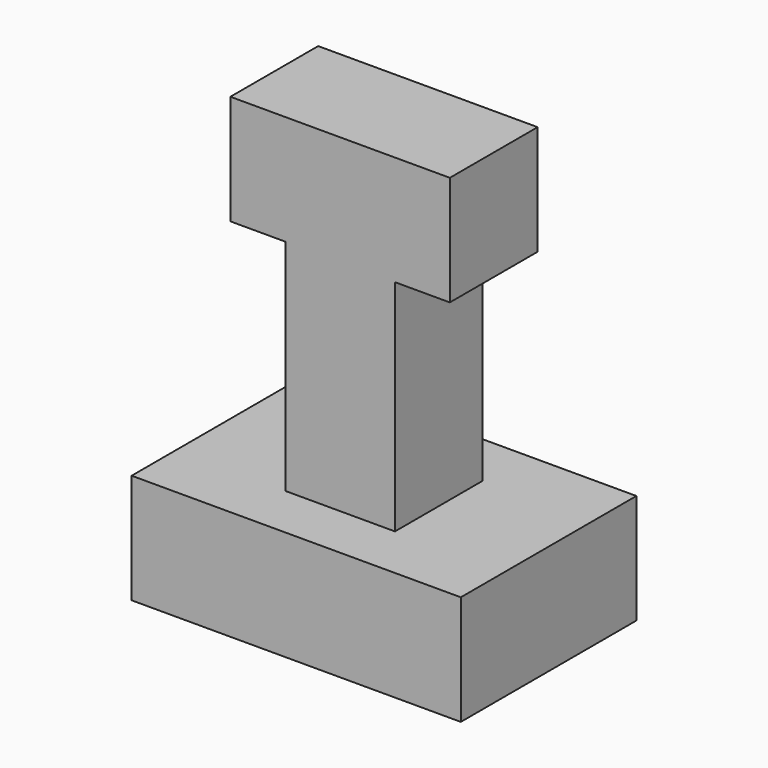
from build123d import *

# Parameters (mm, degrees)
F1_DEPTH = 20
F2_DEPTH = 10


with BuildPart() as f1:
    # F0 (on Front) → F1 (new body, symmetric)
    with BuildSketch(Plane.XZ):
        Polygon((0, 20), (0, 0), (60, 0), (60, 20), (40, 20), (20, 20), align=None)
    extrude(amount=F1_DEPTH, both=True)

    # F0 (on Front) → F2 (join, symmetric)
    with BuildSketch(Plane.XZ):
        Polygon((20, 60), (20, 20), (40, 20), (40, 60), (50, 60), (50, 80), (10, 80), (10, 60), align=None)
    extrude(amount=F2_DEPTH, both=True)


solid = f1.part
